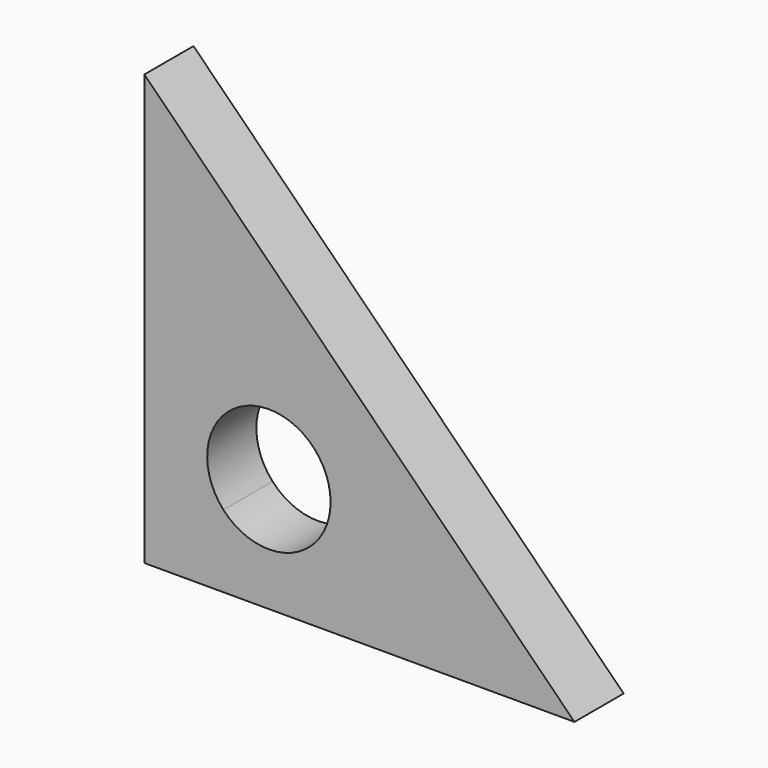
from build123d import *

# Parameters (mm, degrees)
F1_DEPTH = 25.4


with BuildPart() as f1:
    # F0 (on Front) → F1 (new body)
    with BuildSketch(Plane.XZ):
        with BuildLine():
            Line((32.684035, 29.982535), (0, 0))
            Line((0, 0), (177.8, 0))
            Line((177.8, 0), (92.7324, 85.0676))
            Line((92.7324, 85.0676), (70.261609, 64.454133))
            ThreePointArc((70.261609, 64.454133), (75.233576, 56.46592), (76.96971, 47.218334))
            ThreePointArc((76.96971, 47.218334), (60.720408, 23.45758), (32.684035, 29.982535))
        make_face()
        with BuildLine():
            Line((0, 177.8), (0, 0))
            Line((0, 0), (32.684035, 29.982535))
            ThreePointArc((32.684035, 29.982535), (34.237023, 66.007121), (70.261609, 64.454133))
            Line((70.261609, 64.454133), (92.7324, 85.0676))
            Line((92.7324, 85.0676), (0, 177.8))
        make_face()
    extrude(amount=F1_DEPTH)


solid = f1.part
